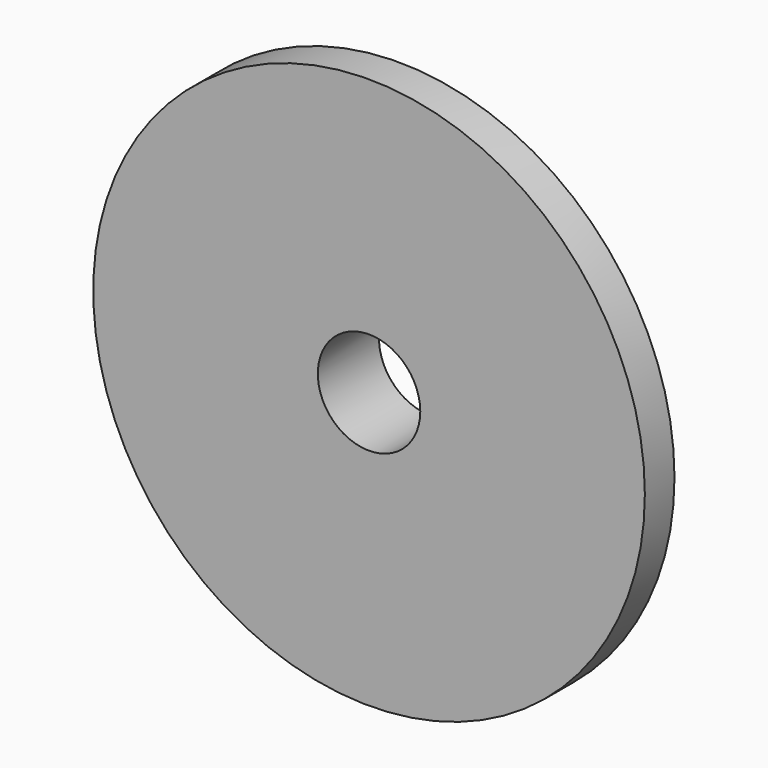
from build123d import *

# Parameters (mm, degrees)
F0_R     = 7.493
F0_R_2   = 1.651
F1_DEPTH = 1.1938
F2_DEPTH = 1.27
F3_R     = 8.8870084673
F3_R_2   = 7.493
F4_DEPTH = 1.1938


with BuildPart() as f1:
    # F0 (on Front) → F1 (new body)
    with BuildSketch(Plane.XZ):
        Circle(F0_R)
        Circle(F0_R_2, mode=Mode.SUBTRACT)
    extrude(amount=F1_DEPTH)

    # F2 (add): a face of the model
    f2_faces = [f1.faces().sort_by_distance(p)[0] for p in [
        (-7.2810659555, -1.1938, 0),
    ]]
    extrude(f2_faces, amount=F2_DEPTH)

    # F3 (on face) → F4 (join)
    with BuildSketch(Plane.XZ.offset(2.4638)):
        Circle(F3_R)
        Circle(F3_R_2, mode=Mode.SUBTRACT)
    extrude(amount=-F4_DEPTH)


solid = f1.part
